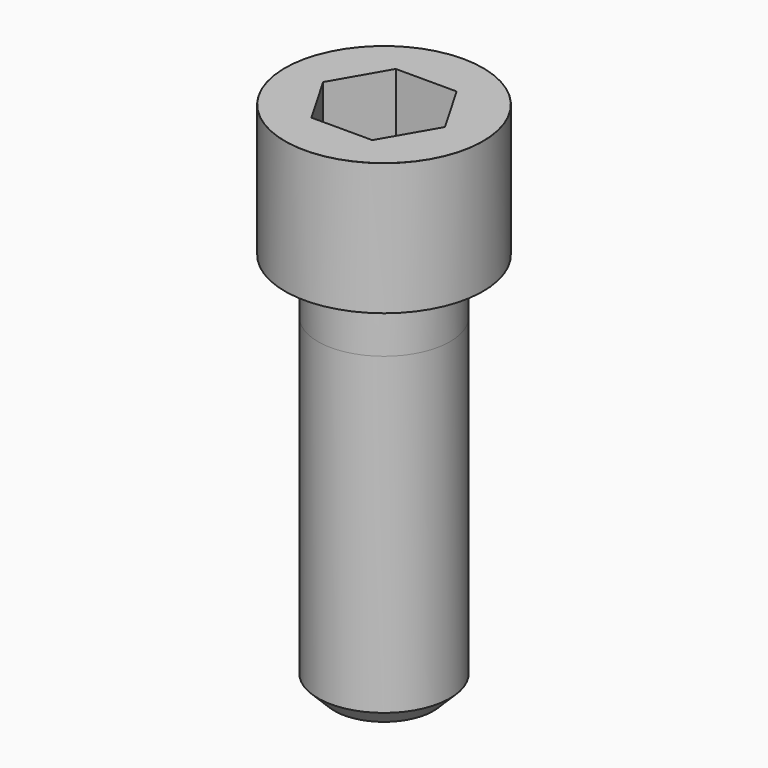
from build123d import *

# Parameters (mm, degrees)
POCKET_DEPTH = 19.15


with BuildPart() as part:
    # Sketch → Revolve (revolve)
    with BuildSketch(Plane.YZ):
        with BuildLine():
            Line((11.999, 0), (18, 0))
            Line((18, 0), (18, 23.97229))
            ThreePointArc((18, 23.97229), (17.991884, 23.991884), (17.97229, 24))
            Line((17.97229, 24), (0, 24))
            Line((0, -70), (0, 24))
            Line((9, -70), (0, -70))
            Line((12, -67), (9, -70))
            Line((12, -10), (12, -67))
            Line((11.999, 0), (12, -10))
        make_face()
    revolve(axis=Axis((0, 0, 0), (0, 0, 1)))

    # Sketch001 → Pocket (cut)
    with BuildSketch(Plane.XY.offset(24)):
        Polygon((11.056258, 0), (5.528129, 9.575), (-5.528129, 9.575), (-11.056258, 0), (-5.528129, -9.575), (5.528129, -9.575), align=None)
    extrude(amount=-POCKET_DEPTH, mode=Mode.SUBTRACT)


solid = part.part
